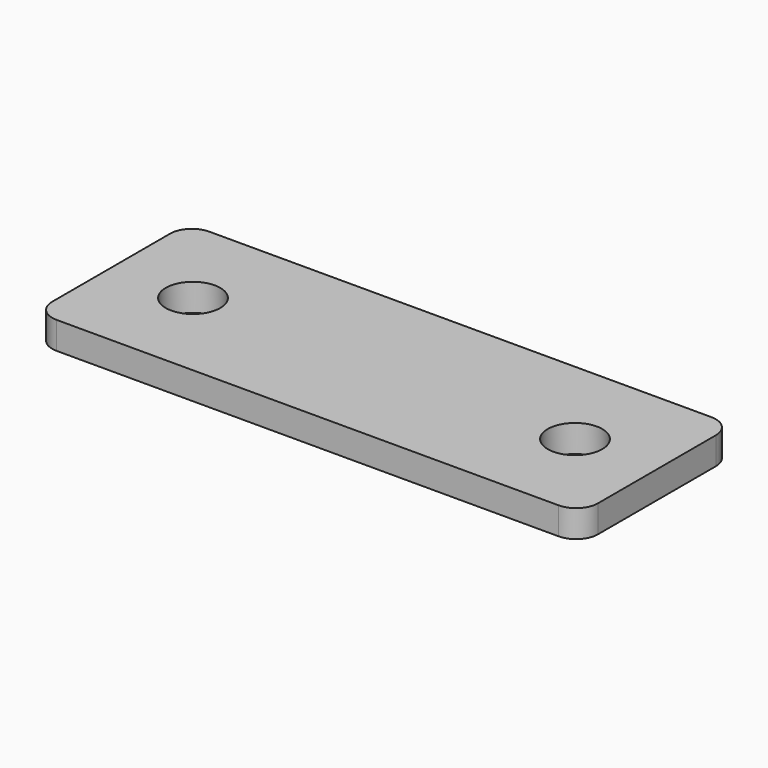
from build123d import *

# Parameters (mm, degrees)
F0_W     = 127
F0_H     = 44.45
F1_DEPTH = 6.35
F2_R     = 5.08
F3_R     = 6.35
F4_DEPTH = 6.35


with BuildPart() as f1:
    # F0 (on Top) → F1 (new body)
    with BuildSketch(Plane.XY):
        Rectangle(F0_W, F0_H)
    extrude(amount=F1_DEPTH)

    # F2
    f2_edges = [f1.edges().sort_by_distance(p)[0] for p in [
        (63.5, -22.225, 3.175),
        (63.5, 22.225, 3.175),
        (-63.5, -22.225, 3.175),
        (-63.5, 22.225, 3.175),
    ]]
    fillet(f2_edges, radius=F2_R)

    # F3 (on face) → F4 (cut, through all)
    with BuildSketch(Plane.XY.offset(6.35)):
        with Locations((-44.45, 0)):
            Circle(F3_R)
        with Locations((44.45, 0)):
            Circle(F3_R)
    extrude(amount=-F4_DEPTH, mode=Mode.SUBTRACT)


solid = f1.part
